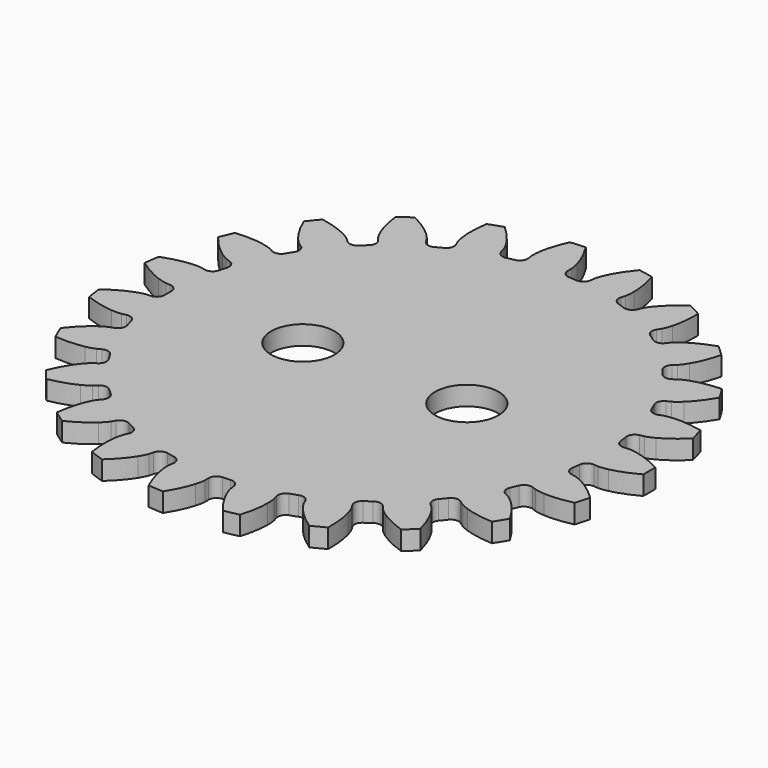
from build123d import *

# Parameters (mm, degrees)
PAD_DEPTH       = 1.8
SKETCH002_R     = 19.5
POCKET001_DEPTH = 1.801
SKETCH001_R     = 3
POCKET_DEPTH    = 5


with BuildPart() as bearing_middle:
    # InvoluteGear → Pad (new body)
    with BuildSketch(Plane.XY):
        with BuildLine():
            Line((21.1633, -1.764858), (21.575713, -1.797748))
            add(Edge.make_bspline(
                [(21.575713, -1.797748), (21.674895, -1.800178), (21.973597, -1.795911), (22.471429, -1.689824)],
                knots=[0, 0, 0, 0, 1, 1, 1, 1], degree=3))
            add(Edge.make_bspline(
                [(22.471429, -1.689824), (23.0675, -1.561071), (23.927154, -1.287541), (24.992023, -0.710094)],
                knots=[0, 0, 0, 0, 1, 1, 1, 1], degree=3))
            ThreePointArc((24.992023, -0.710094), (25.002109, 0), (24.992023, 0.710094))
            add(Edge.make_bspline(
                [(24.992023, 0.710094), (23.927154, 1.287541), (23.0675, 1.561071), (22.471429, 1.689824)],
                knots=[0, 0, 0, 0, 1, 1, 1, 1], degree=3))
            add(Edge.make_bspline(
                [(22.471429, 1.689824), (21.973597, 1.795911), (21.674895, 1.800178), (21.575713, 1.797748)],
                knots=[0, 0, 0, 0, 1, 1, 1, 1], degree=3))
            Line((21.575713, 1.797748), (21.1633, 1.764858))
            ThreePointArc((21.1633, 1.764858), (20.626905, 1.931092), (20.356285, 2.423148))
            ThreePointArc((20.356285, 2.423148), (20.309062, 2.791416), (20.255177, 3.158769))
            ThreePointArc((20.255177, 3.158769), (20.383006, 3.70559), (20.854661, 4.010378))
            Line((20.854661, 4.010378), (21.260654, 4.089975))
            add(Edge.make_bspline(
                [(21.260654, 4.089975), (21.356813, 4.114394), (21.643287, 4.199092), (22.094037, 4.435559)],
                knots=[0, 0, 0, 0, 1, 1, 1, 1], degree=3))
            add(Edge.make_bspline(
                [(22.094037, 4.435559), (22.633266, 4.720355), (23.387245, 5.215673), (24.256832, 6.059005)],
                knots=[0, 0, 0, 0, 1, 1, 1, 1], degree=3))
            ThreePointArc((24.256832, 6.059005), (24.074963, 6.745488), (23.87367, 7.426529))
            add(Edge.make_bspline(
                [(23.87367, 7.426529), (22.692496, 7.695265), (21.790922, 7.726719), (21.182219, 7.689879)],
                knots=[0, 0, 0, 0, 1, 1, 1, 1], degree=3))
            add(Edge.make_bspline(
                [(21.182219, 7.689879), (20.674225, 7.657719), (20.385448, 7.581239), (20.290601, 7.55214)],
                knots=[0, 0, 0, 0, 1, 1, 1, 1], degree=3))
            Line((20.290601, 7.55214), (19.902355, 7.409202))
            ThreePointArc((19.902355, 7.409202), (19.341001, 7.424555), (18.947661, 7.825351))
            ThreePointArc((18.947661, 7.825351), (18.802832, 8.167222), (18.651834, 8.506414))
            ThreePointArc((18.651834, 8.506414), (18.627392, 9.067446), (18.999326, 9.488182))
            Line((18.999326, 9.488182), (19.368789, 9.674364))
            add(Edge.make_bspline(
                [(19.368789, 9.674364), (19.454794, 9.72382), (19.707794, 9.882667), (20.07803, 10.231976)],
                knots=[0, 0, 0, 0, 1, 1, 1, 1], degree=3))
            add(Edge.make_bspline(
                [(20.07803, 10.231976), (20.520427, 10.651693), (21.11281, 11.332065), (21.722622, 12.378736)],
                knots=[0, 0, 0, 0, 1, 1, 1, 1], degree=3))
            ThreePointArc((21.722622, 12.378736), (21.362287, 12.990695), (20.984716, 13.592172))
            add(Edge.make_bspline(
                [(20.984716, 13.592172), (19.774839, 13.532265), (18.898212, 13.319312), (18.32202, 13.119612)],
                knots=[0, 0, 0, 0, 1, 1, 1, 1], degree=3))
            add(Edge.make_bspline(
                [(18.32202, 13.119612), (17.841541, 12.951589), (17.584107, 12.800035), (17.500627, 12.746425)],
                knots=[0, 0, 0, 0, 1, 1, 1, 1], degree=3))
            Line((17.500627, 12.746425), (17.165342, 12.50404))
            ThreePointArc((17.165342, 12.50404), (16.620663, 12.367371), (16.133776, 12.647184))
            ThreePointArc((16.133776, 12.647184), (15.902081, 12.937303), (15.66517, 13.223178))
            ThreePointArc((15.66517, 13.223178), (15.49027, 13.756811), (15.734899, 14.262291))
            Line((15.734899, 14.262291), (16.04043, 14.541249))
            add(Edge.make_bspline(
                [(16.04043, 14.541249), (16.109902, 14.612075), (16.310664, 14.83329), (16.572928, 15.269534)],
                knots=[0, 0, 0, 0, 1, 1, 1, 1], degree=3))
            add(Edge.make_bspline(
                [(16.572928, 15.269534), (16.885681, 15.793045), (17.272536, 16.608009), (17.577346, 17.780392)],
                knots=[0, 0, 0, 0, 1, 1, 1, 1], degree=3))
            ThreePointArc((17.577346, 17.780392), (17.065268, 18.272441), (16.539421, 18.749746))
            add(Edge.make_bspline(
                [(16.539421, 18.749746), (15.390573, 18.36564), (14.603908, 17.924072), (14.102961, 17.576323)],
                knots=[0, 0, 0, 0, 1, 1, 1, 1], degree=3))
            add(Edge.make_bspline(
                [(14.102961, 17.576323), (13.685631, 17.284899), (13.478632, 17.06951), (13.412712, 16.995366)],
                knots=[0, 0, 0, 0, 1, 1, 1, 1], degree=3))
            Line((13.412712, 16.995366), (13.155255, 16.67151))
            ThreePointArc((13.155255, 16.67151), (12.667647, 16.392957), (12.123323, 16.531033))
            ThreePointArc((12.123323, 16.531033), (11.821947, 16.747883), (11.516693, 16.959239))
            ThreePointArc((11.516693, 16.959239), (11.204306, 17.425896), (11.303486, 17.978632))
            Line((11.303486, 17.978632), (11.522425, 18.329676))
            add(Edge.make_bspline(
                [(11.522425, 18.329676), (11.570213, 18.416619), (11.703846, 18.683796), (11.838688, 19.174621)],
                knots=[0, 0, 0, 0, 1, 1, 1, 1], degree=3))
            add(Edge.make_bspline(
                [(11.838688, 19.174621), (11.998602, 19.763098), (12.151236, 20.652214), (12.128438, 21.863358)],
                knots=[0, 0, 0, 0, 1, 1, 1, 1], degree=3))
            ThreePointArc((12.128438, 21.863358), (11.502596, 22.199003), (10.867474, 22.516737))
            add(Edge.make_bspline(
                [(10.867474, 22.516737), (9.864858, 21.836919), (9.226498, 21.199486), (8.837949, 20.729479)],
                knots=[0, 0, 0, 0, 1, 1, 1, 1], degree=3))
            add(Edge.make_bspline(
                [(8.837949, 20.729479), (8.514721, 20.336267), (8.37351, 20.073018), (8.330038, 19.983838)],
                knots=[0, 0, 0, 0, 1, 1, 1, 1], degree=3))
            Line((8.330038, 19.983838), (8.169503, 19.602531))
            ThreePointArc((8.169503, 19.602531), (7.775129, 19.202752), (7.213738, 19.188851))
            ThreePointArc((7.213738, 19.188851), (6.865032, 19.316349), (6.514075, 19.437511))
            ThreePointArc((6.514075, 19.437511), (6.08737, 19.802582), (6.033745, 20.361579))
            Line((6.033745, 20.361579), (6.149855, 20.758675))
            add(Edge.make_bspline(
                [(6.149855, 20.758675), (6.172414, 20.855287), (6.229008, 21.14861), (6.226427, 21.657614)],
                knots=[0, 0, 0, 0, 1, 1, 1, 1], degree=3))
            add(Edge.make_bspline(
                [(6.226427, 21.657614), (6.221641, 22.267413), (6.128735, 23.164738), (5.780019, 24.324819)],
                knots=[0, 0, 0, 0, 1, 1, 1, 1], degree=3))
            ThreePointArc((5.780019, 24.324819), (5.086829, 24.479167), (4.389536, 24.613764))
            add(Edge.make_bspline(
                [(4.389536, 24.613764), (3.607512, 23.688654), (3.164802, 22.902631), (2.917468, 22.345223)],
                knots=[0, 0, 0, 0, 1, 1, 1, 1], degree=3))
            add(Edge.make_bspline(
                [(2.917468, 22.345223), (2.712312, 21.879388), (2.647362, 21.587801), (2.629562, 21.4902)],
                knots=[0, 0, 0, 0, 1, 1, 1, 1], degree=3))
            Line((2.629562, 21.4902), (2.577856, 21.079721))
            ThreePointArc((2.577856, 21.079721), (2.305966, 20.588367), (1.769143, 20.423519))
            ThreePointArc((1.769143, 20.423519), (1.398969, 20.45221), (1.028337, 20.474192))
            ThreePointArc((1.028337, 20.474192), (0.518961, 20.710601), (0.316509, 21.234402))
            Line((0.316509, 21.234402), (0.321178, 21.648098))
            add(Edge.make_bspline(
                [(0.321178, 21.648098), (0.316835, 21.747214), (0.292193, 22.044928), (0.15238, 22.534361)],
                knots=[0, 0, 0, 0, 1, 1, 1, 1], degree=3))
            add(Edge.make_bspline(
                [(0.15238, 22.534361), (-0.01675, 23.120255), (-0.348307, 23.959239), (-0.997077, 24.982219)],
                knots=[0, 0, 0, 0, 1, 1, 1, 1], degree=3))
            ThreePointArc((-0.997077, 24.982219), (-1.706204, 24.943824), (-2.413954, 24.885302))
            add(Edge.make_bspline(
                [(-2.413954, 24.885302), (-2.917387, 23.783509), (-3.131614, 22.907193), (-3.219389, 22.303725)],
                knots=[0, 0, 0, 0, 1, 1, 1, 1], degree=3))
            add(Edge.make_bspline(
                [(-3.219389, 22.303725), (-3.291256, 21.799814), (-3.275129, 21.501517), (-3.265936, 21.402733)],
                knots=[0, 0, 0, 0, 1, 1, 1, 1], degree=3))
            Line((-3.265936, 21.402733), (-3.204978, 20.993526))
            ThreePointArc((-3.204978, 20.993526), (-3.33422, 20.447036), (-3.806661, 20.143469))
            ThreePointArc((-3.806661, 20.143469), (-4.170848, 20.071224), (-4.533667, 19.992395))
            ThreePointArc((-4.533667, 19.992395), (-5.087937, 20.08261), (-5.424201, 20.532366))
            Line((-5.424201, 20.532366), (-5.531319, 20.93198))
            add(Edge.make_bspline(
                [(-5.531319, 20.93198), (-5.562243, 21.026249), (-5.666293, 21.306275), (-5.932969, 21.739837)],
                knots=[0, 0, 0, 0, 1, 1, 1, 1], degree=3))
            add(Edge.make_bspline(
                [(-5.932969, 21.739837), (-6.253899, 22.258375), (-6.799516, 22.976793), (-7.700225, 23.786802)],
                knots=[0, 0, 0, 0, 1, 1, 1, 1], degree=3))
            ThreePointArc((-7.700225, 23.786802), (-8.372697, 23.558511), (-9.038413, 23.31121))
            add(Edge.make_bspline(
                [(-9.038413, 23.31121), (-9.225916, 22.114451), (-9.195772, 21.212833), (-9.117478, 20.608062)],
                knots=[0, 0, 0, 0, 1, 1, 1, 1], degree=3))
            add(Edge.make_bspline(
                [(-9.117478, 20.608062), (-9.050726, 20.103447), (-8.954718, 19.820563), (-8.919214, 19.727922)],
                knots=[0, 0, 0, 0, 1, 1, 1, 1], degree=3))
            Line((-8.919214, 19.727922), (-8.750115, 19.350336))
            ThreePointArc((-8.750115, 19.350336), (-8.727123, 18.789243), (-9.100143, 18.369469))
            ThreePointArc((-9.100143, 18.369469), (-9.431333, 18.201647), (-9.75943, 18.027854))
            ThreePointArc((-9.75943, 18.027854), (-10.317486, 17.965183), (-10.762623, 18.307538))
            Line((-10.762623, 18.307538), (-10.973583, 18.663434))
            add(Edge.make_bspline(
                [(-10.973583, 18.663434), (-11.028794, 18.745864), (-11.204535, 18.987433), (-11.578296, 19.332969)],
                knots=[0, 0, 0, 0, 1, 1, 1, 1], degree=3))
            add(Edge.make_bspline(
                [(-11.578296, 19.332969), (-12.027225, 19.745692), (-12.746436, 20.290264), (-13.832282, 20.827227)],
                knots=[0, 0, 0, 0, 1, 1, 1, 1], degree=3))
            ThreePointArc((-13.832282, 20.827227), (-14.418224, 20.425971), (-14.992533, 20.008233))
            add(Edge.make_bspline(
                [(-14.992533, 20.008233), (-14.850201, 18.805265), (-14.577921, 17.945214), (-14.339366, 17.383993)],
                knots=[0, 0, 0, 0, 1, 1, 1, 1], degree=3))
            add(Edge.make_bspline(
                [(-14.339366, 17.383993), (-14.138946, 16.9161), (-13.970177, 16.669609), (-13.910995, 16.589982)],
                knots=[0, 0, 0, 0, 1, 1, 1, 1], degree=3))
            Line((-13.910995, 16.589982), (-13.646295, 16.27202))
            ThreePointArc((-13.646295, 16.27202), (-13.472774, 15.737937), (-13.718708, 15.23309))
            ThreePointArc((-13.718708, 15.23309), (-13.992339, 14.982137), (-14.261381, 14.72627))
            ThreePointArc((-14.261381, 14.72627), (-14.781834, 14.515361), (-15.30283, 14.724924))
            Line((-15.30283, 14.724924), (-15.601987, 15.010706))
            add(Edge.make_bspline(
                [(-15.601987, 15.010706), (-15.67739, 15.075183), (-15.911789, 15.26038), (-16.364914, 15.492263)],
                knots=[0, 0, 0, 0, 1, 1, 1, 1], degree=3))
            add(Edge.make_bspline(
                [(-16.364914, 15.492263), (-16.908547, 15.768561), (-17.748012, 16.098899), (-18.938462, 16.322992)],
                knots=[0, 0, 0, 0, 1, 1, 1, 1], degree=3))
            ThreePointArc((-18.938462, 16.322992), (-19.394418, 15.77853), (-19.834726, 15.221336))
            add(Edge.make_bspline(
                [(-19.834726, 15.221336), (-19.373115, 14.101378), (-18.878893, 13.346681), (-18.497769, 12.870633)],
                knots=[0, 0, 0, 0, 1, 1, 1, 1], degree=3))
            add(Edge.make_bspline(
                [(-18.497769, 12.870633), (-18.178545, 12.474163), (-17.949531, 12.282346), (-17.871061, 12.221639)],
                knots=[0, 0, 0, 0, 1, 1, 1, 1], degree=3))
            Line((-17.871061, 12.221639), (-17.530392, 11.986883))
            ThreePointArc((-17.530392, 11.986883), (-17.219212, 11.519421), (-17.31982, 10.966943))
            ThreePointArc((-17.31982, 10.966943), (-17.515598, 10.651471), (-17.70563, 10.332505))
            ThreePointArc((-17.70563, 10.332505), (-18.149881, 9.989001), (-18.708097, 10.05023))
            Line((-18.708097, 10.05023), (-19.073263, 10.244702))
            add(Edge.make_bspline(
                [(-19.073263, 10.244702), (-19.163265, 10.286445), (-19.438938, 10.401535), (-19.937821, 10.502567)],
                knots=[0, 0, 0, 0, 1, 1, 1, 1], degree=3))
            add(Edge.make_bspline(
                [(-19.937821, 10.502567), (-20.535839, 10.621949), (-21.433298, 10.713552), (-22.640063, 10.608155)],
                knots=[0, 0, 0, 0, 1, 1, 1, 1], degree=3))
            ThreePointArc((-22.640063, 10.608155), (-22.932217, 9.960868), (-23.205868, 9.305543))
            add(Edge.make_bspline(
                [(-23.205868, 9.305543), (-22.459214, 8.351657), (-21.779704, 7.758285), (-21.284276, 7.402716)],
                knots=[0, 0, 0, 0, 1, 1, 1, 1], degree=3))
            add(Edge.make_bspline(
                [(-21.284276, 7.402716), (-20.869924, 7.107075), (-20.597651, 6.984158), (-20.505713, 6.946873)],
                knots=[0, 0, 0, 0, 1, 1, 1, 1], degree=3))
            Line((-20.505713, 6.946873), (-20.11434, 6.812734))
            ThreePointArc((-20.11434, 6.812734), (-19.688579, 6.446562), (-19.6364, 5.887427))
            ThreePointArc((-19.6364, 5.887427), (-19.739804, 5.530834), (-19.836734, 5.172426))
            ThreePointArc((-19.836734, 5.172426), (-20.171834, 4.721803), (-20.725869, 4.630156))
            Line((-20.725869, 4.630156), (-21.129963, 4.718896))
            add(Edge.make_bspline(
                [(-21.129963, 4.718896), (-21.227889, 4.734809), (-21.52439, 4.771255), (-22.032031, 4.733944)],
                knots=[0, 0, 0, 0, 1, 1, 1, 1], degree=3))
            add(Edge.make_bspline(
                [(-22.032031, 4.733944), (-22.640082, 4.687555), (-23.528975, 4.533629), (-24.662554, 4.10656)],
                knots=[0, 0, 0, 0, 1, 1, 1, 1], degree=3))
            ThreePointArc((-24.662554, 4.10656), (-24.769238, 3.404453), (-24.855937, 2.6996))
            add(Edge.make_bspline(
                [(-24.855937, 2.6996), (-23.879615, 1.982531), (-23.065214, 1.594493), (-22.492227, 1.385775)],
                knots=[0, 0, 0, 0, 1, 1, 1, 1], degree=3))
            add(Edge.make_bspline(
                [(-22.492227, 1.385775), (-22.013476, 1.212887), (-21.718138, 1.167986), (-21.619549, 1.156889)],
                knots=[0, 0, 0, 0, 1, 1, 1, 1], degree=3))
            Line((-21.619549, 1.156889), (-21.206499, 1.133316))
            ThreePointArc((-21.206499, 1.133316), (-20.697735, 0.89559), (-20.496638, 0.371268))
            ThreePointArc((-20.496638, 0.371268), (-20.5, 0), (-20.496638, -0.371268))
            ThreePointArc((-20.496638, -0.371268), (-20.697735, -0.89559), (-21.206499, -1.133316))
            Line((-21.206499, -1.133316), (-21.619549, -1.156889))
            add(Edge.make_bspline(
                [(-21.619549, -1.156889), (-21.718138, -1.167986), (-22.013476, -1.212887), (-22.492227, -1.385775)],
                knots=[0, 0, 0, 0, 1, 1, 1, 1], degree=3))
            add(Edge.make_bspline(
                [(-22.492227, -1.385775), (-23.065214, -1.594493), (-23.879615, -1.982531), (-24.855937, -2.6996)],
                knots=[0, 0, 0, 0, 1, 1, 1, 1], degree=3))
            ThreePointArc((-24.855937, -2.6996), (-24.769238, -3.404453), (-24.662554, -4.10656))
            add(Edge.make_bspline(
                [(-24.662554, -4.10656), (-23.528975, -4.533629), (-22.640082, -4.687555), (-22.032031, -4.733944)],
                knots=[0, 0, 0, 0, 1, 1, 1, 1], degree=3))
            add(Edge.make_bspline(
                [(-22.032031, -4.733944), (-21.52439, -4.771255), (-21.227889, -4.734809), (-21.129963, -4.718896)],
                knots=[0, 0, 0, 0, 1, 1, 1, 1], degree=3))
            Line((-21.129963, -4.718896), (-20.725869, -4.630156))
            ThreePointArc((-20.725869, -4.630156), (-20.171834, -4.721803), (-19.836734, -5.172426))
            ThreePointArc((-19.836734, -5.172426), (-19.739804, -5.530834), (-19.6364, -5.887427))
            ThreePointArc((-19.6364, -5.887427), (-19.688579, -6.446562), (-20.11434, -6.812734))
            Line((-20.11434, -6.812734), (-20.505713, -6.946873))
            add(Edge.make_bspline(
                [(-20.505713, -6.946873), (-20.597651, -6.984158), (-20.869924, -7.107075), (-21.284276, -7.402716)],
                knots=[0, 0, 0, 0, 1, 1, 1, 1], degree=3))
            add(Edge.make_bspline(
                [(-21.284276, -7.402716), (-21.779704, -7.758285), (-22.459214, -8.351657), (-23.205868, -9.305543)],
                knots=[0, 0, 0, 0, 1, 1, 1, 1], degree=3))
            ThreePointArc((-23.205868, -9.305543), (-22.932217, -9.960868), (-22.640063, -10.608155))
            add(Edge.make_bspline(
                [(-22.640063, -10.608155), (-21.433298, -10.713552), (-20.535839, -10.621949), (-19.937821, -10.502567)],
                knots=[0, 0, 0, 0, 1, 1, 1, 1], degree=3))
            add(Edge.make_bspline(
                [(-19.937821, -10.502567), (-19.438938, -10.401535), (-19.163265, -10.286445), (-19.073263, -10.244702)],
                knots=[0, 0, 0, 0, 1, 1, 1, 1], degree=3))
            Line((-19.073263, -10.244702), (-18.708097, -10.05023))
            ThreePointArc((-18.708097, -10.05023), (-18.149881, -9.989001), (-17.70563, -10.332505))
            ThreePointArc((-17.70563, -10.332505), (-17.515598, -10.651471), (-17.31982, -10.966943))
            ThreePointArc((-17.31982, -10.966943), (-17.219212, -11.519421), (-17.530392, -11.986883))
            Line((-17.530392, -11.986883), (-17.871061, -12.221639))
            add(Edge.make_bspline(
                [(-17.871061, -12.221639), (-17.949531, -12.282346), (-18.178545, -12.474163), (-18.497769, -12.870633)],
                knots=[0, 0, 0, 0, 1, 1, 1, 1], degree=3))
            add(Edge.make_bspline(
                [(-18.497769, -12.870633), (-18.878893, -13.346681), (-19.373115, -14.101378), (-19.834726, -15.221336)],
                knots=[0, 0, 0, 0, 1, 1, 1, 1], degree=3))
            ThreePointArc((-19.834726, -15.221336), (-19.394418, -15.77853), (-18.938462, -16.322992))
            add(Edge.make_bspline(
                [(-18.938462, -16.322992), (-17.748012, -16.098899), (-16.908547, -15.768561), (-16.364914, -15.492263)],
                knots=[0, 0, 0, 0, 1, 1, 1, 1], degree=3))
            add(Edge.make_bspline(
                [(-16.364914, -15.492263), (-15.911789, -15.26038), (-15.67739, -15.075183), (-15.601987, -15.010706)],
                knots=[0, 0, 0, 0, 1, 1, 1, 1], degree=3))
            Line((-15.601987, -15.010706), (-15.30283, -14.724924))
            ThreePointArc((-15.30283, -14.724924), (-14.781834, -14.515361), (-14.261381, -14.72627))
            ThreePointArc((-14.261381, -14.72627), (-13.992339, -14.982137), (-13.718708, -15.23309))
            ThreePointArc((-13.718708, -15.23309), (-13.472774, -15.737937), (-13.646295, -16.27202))
            Line((-13.646295, -16.27202), (-13.910995, -16.589982))
            add(Edge.make_bspline(
                [(-13.910995, -16.589982), (-13.970177, -16.669609), (-14.138946, -16.9161), (-14.339366, -17.383993)],
                knots=[0, 0, 0, 0, 1, 1, 1, 1], degree=3))
            add(Edge.make_bspline(
                [(-14.339366, -17.383993), (-14.577921, -17.945214), (-14.850201, -18.805265), (-14.992533, -20.008233)],
                knots=[0, 0, 0, 0, 1, 1, 1, 1], degree=3))
            ThreePointArc((-14.992533, -20.008233), (-14.418224, -20.425971), (-13.832282, -20.827227))
            add(Edge.make_bspline(
                [(-13.832282, -20.827227), (-12.746436, -20.290264), (-12.027225, -19.745692), (-11.578296, -19.332969)],
                knots=[0, 0, 0, 0, 1, 1, 1, 1], degree=3))
            add(Edge.make_bspline(
                [(-11.578296, -19.332969), (-11.204535, -18.987433), (-11.028794, -18.745864), (-10.973583, -18.663434)],
                knots=[0, 0, 0, 0, 1, 1, 1, 1], degree=3))
            Line((-10.973583, -18.663434), (-10.762623, -18.307538))
            ThreePointArc((-10.762623, -18.307538), (-10.317486, -17.965183), (-9.75943, -18.027854))
            ThreePointArc((-9.75943, -18.027854), (-9.431333, -18.201647), (-9.100143, -18.369469))
            ThreePointArc((-9.100143, -18.369469), (-8.727123, -18.789243), (-8.750115, -19.350336))
            Line((-8.750115, -19.350336), (-8.919214, -19.727922))
            add(Edge.make_bspline(
                [(-8.919214, -19.727922), (-8.954718, -19.820563), (-9.050726, -20.103447), (-9.117478, -20.608062)],
                knots=[0, 0, 0, 0, 1, 1, 1, 1], degree=3))
            add(Edge.make_bspline(
                [(-9.117478, -20.608062), (-9.195772, -21.212833), (-9.225916, -22.114451), (-9.038413, -23.31121)],
                knots=[0, 0, 0, 0, 1, 1, 1, 1], degree=3))
            ThreePointArc((-9.038413, -23.31121), (-8.372697, -23.558511), (-7.700225, -23.786802))
            add(Edge.make_bspline(
                [(-7.700225, -23.786802), (-6.799516, -22.976793), (-6.253899, -22.258375), (-5.932969, -21.739837)],
                knots=[0, 0, 0, 0, 1, 1, 1, 1], degree=3))
            add(Edge.make_bspline(
                [(-5.932969, -21.739837), (-5.666293, -21.306275), (-5.562243, -21.026249), (-5.531319, -20.93198)],
                knots=[0, 0, 0, 0, 1, 1, 1, 1], degree=3))
            Line((-5.531319, -20.93198), (-5.424201, -20.532366))
            ThreePointArc((-5.424201, -20.532366), (-5.087937, -20.08261), (-4.533667, -19.992395))
            ThreePointArc((-4.533667, -19.992395), (-4.170848, -20.071224), (-3.806661, -20.143469))
            ThreePointArc((-3.806661, -20.143469), (-3.33422, -20.447036), (-3.204978, -20.993526))
            Line((-3.204978, -20.993526), (-3.265936, -21.402733))
            add(Edge.make_bspline(
                [(-3.265936, -21.402733), (-3.275129, -21.501517), (-3.291256, -21.799814), (-3.219389, -22.303725)],
                knots=[0, 0, 0, 0, 1, 1, 1, 1], degree=3))
            add(Edge.make_bspline(
                [(-3.219389, -22.303725), (-3.131614, -22.907193), (-2.917387, -23.783509), (-2.413954, -24.885302)],
                knots=[0, 0, 0, 0, 1, 1, 1, 1], degree=3))
            ThreePointArc((-2.413954, -24.885302), (-1.706204, -24.943824), (-0.997077, -24.982219))
            add(Edge.make_bspline(
                [(-0.997077, -24.982219), (-0.348307, -23.959239), (-0.01675, -23.120255), (0.15238, -22.534361)],
                knots=[0, 0, 0, 0, 1, 1, 1, 1], degree=3))
            add(Edge.make_bspline(
                [(0.15238, -22.534361), (0.292193, -22.044928), (0.316835, -21.747214), (0.321178, -21.648098)],
                knots=[0, 0, 0, 0, 1, 1, 1, 1], degree=3))
            Line((0.321178, -21.648098), (0.316509, -21.234402))
            ThreePointArc((0.316509, -21.234402), (0.518961, -20.710601), (1.028337, -20.474192))
            ThreePointArc((1.028337, -20.474192), (1.398969, -20.45221), (1.769143, -20.423519))
            ThreePointArc((1.769143, -20.423519), (2.305966, -20.588367), (2.577856, -21.079721))
            Line((2.577856, -21.079721), (2.629562, -21.4902))
            add(Edge.make_bspline(
                [(2.629562, -21.4902), (2.647362, -21.587801), (2.712312, -21.879388), (2.917468, -22.345223)],
                knots=[0, 0, 0, 0, 1, 1, 1, 1], degree=3))
            add(Edge.make_bspline(
                [(2.917468, -22.345223), (3.164802, -22.902631), (3.607512, -23.688654), (4.389536, -24.613764)],
                knots=[0, 0, 0, 0, 1, 1, 1, 1], degree=3))
            ThreePointArc((4.389536, -24.613764), (5.086829, -24.479167), (5.780019, -24.324819))
            add(Edge.make_bspline(
                [(5.780019, -24.324819), (6.128735, -23.164738), (6.221641, -22.267413), (6.226427, -21.657614)],
                knots=[0, 0, 0, 0, 1, 1, 1, 1], degree=3))
            add(Edge.make_bspline(
                [(6.226427, -21.657614), (6.229008, -21.14861), (6.172414, -20.855287), (6.149855, -20.758675)],
                knots=[0, 0, 0, 0, 1, 1, 1, 1], degree=3))
            Line((6.149855, -20.758675), (6.033745, -20.361579))
            ThreePointArc((6.033745, -20.361579), (6.08737, -19.802582), (6.514075, -19.437511))
            ThreePointArc((6.514075, -19.437511), (6.865032, -19.316349), (7.213738, -19.188851))
            ThreePointArc((7.213738, -19.188851), (7.775129, -19.202752), (8.169503, -19.602531))
            Line((8.169503, -19.602531), (8.330038, -19.983838))
            add(Edge.make_bspline(
                [(8.330038, -19.983838), (8.37351, -20.073018), (8.514721, -20.336267), (8.837949, -20.729479)],
                knots=[0, 0, 0, 0, 1, 1, 1, 1], degree=3))
            add(Edge.make_bspline(
                [(8.837949, -20.729479), (9.226498, -21.199486), (9.864858, -21.836919), (10.867474, -22.516737)],
                knots=[0, 0, 0, 0, 1, 1, 1, 1], degree=3))
            ThreePointArc((10.867474, -22.516737), (11.502596, -22.199003), (12.128438, -21.863358))
            add(Edge.make_bspline(
                [(12.128438, -21.863358), (12.151236, -20.652214), (11.998602, -19.763098), (11.838688, -19.174621)],
                knots=[0, 0, 0, 0, 1, 1, 1, 1], degree=3))
            add(Edge.make_bspline(
                [(11.838688, -19.174621), (11.703846, -18.683796), (11.570213, -18.416619), (11.522425, -18.329676)],
                knots=[0, 0, 0, 0, 1, 1, 1, 1], degree=3))
            Line((11.522425, -18.329676), (11.303486, -17.978632))
            ThreePointArc((11.303486, -17.978632), (11.204306, -17.425896), (11.516693, -16.959239))
            ThreePointArc((11.516693, -16.959239), (11.821947, -16.747883), (12.123323, -16.531033))
            ThreePointArc((12.123323, -16.531033), (12.667647, -16.392957), (13.155255, -16.67151))
            Line((13.155255, -16.67151), (13.412712, -16.995366))
            add(Edge.make_bspline(
                [(13.412712, -16.995366), (13.478632, -17.06951), (13.685631, -17.284899), (14.102961, -17.576323)],
                knots=[0, 0, 0, 0, 1, 1, 1, 1], degree=3))
            add(Edge.make_bspline(
                [(14.102961, -17.576323), (14.603908, -17.924072), (15.390573, -18.36564), (16.539421, -18.749746)],
                knots=[0, 0, 0, 0, 1, 1, 1, 1], degree=3))
            ThreePointArc((16.539421, -18.749746), (17.065268, -18.272441), (17.577346, -17.780392))
            add(Edge.make_bspline(
                [(17.577346, -17.780392), (17.272536, -16.608009), (16.885681, -15.793045), (16.572928, -15.269534)],
                knots=[0, 0, 0, 0, 1, 1, 1, 1], degree=3))
            add(Edge.make_bspline(
                [(16.572928, -15.269534), (16.310664, -14.83329), (16.109902, -14.612075), (16.04043, -14.541249)],
                knots=[0, 0, 0, 0, 1, 1, 1, 1], degree=3))
            Line((16.04043, -14.541249), (15.734899, -14.262291))
            ThreePointArc((15.734899, -14.262291), (15.49027, -13.756811), (15.66517, -13.223178))
            ThreePointArc((15.66517, -13.223178), (15.902081, -12.937303), (16.133776, -12.647184))
            ThreePointArc((16.133776, -12.647184), (16.620663, -12.367371), (17.165342, -12.50404))
            Line((17.165342, -12.50404), (17.500627, -12.746425))
            add(Edge.make_bspline(
                [(17.500627, -12.746425), (17.584107, -12.800035), (17.841541, -12.951589), (18.32202, -13.119612)],
                knots=[0, 0, 0, 0, 1, 1, 1, 1], degree=3))
            add(Edge.make_bspline(
                [(18.32202, -13.119612), (18.898212, -13.319312), (19.774839, -13.532265), (20.984716, -13.592172)],
                knots=[0, 0, 0, 0, 1, 1, 1, 1], degree=3))
            ThreePointArc((20.984716, -13.592172), (21.362287, -12.990695), (21.722622, -12.378736))
            add(Edge.make_bspline(
                [(21.722622, -12.378736), (21.11281, -11.332065), (20.520427, -10.651693), (20.07803, -10.231976)],
                knots=[0, 0, 0, 0, 1, 1, 1, 1], degree=3))
            add(Edge.make_bspline(
                [(20.07803, -10.231976), (19.707794, -9.882667), (19.454794, -9.72382), (19.368789, -9.674364)],
                knots=[0, 0, 0, 0, 1, 1, 1, 1], degree=3))
            Line((19.368789, -9.674364), (18.999326, -9.488182))
            ThreePointArc((18.999326, -9.488182), (18.627392, -9.067446), (18.651834, -8.506414))
            ThreePointArc((18.651834, -8.506414), (18.802832, -8.167222), (18.947661, -7.825351))
            ThreePointArc((18.947661, -7.825351), (19.341001, -7.424555), (19.902355, -7.409202))
            Line((19.902355, -7.409202), (20.290601, -7.55214))
            add(Edge.make_bspline(
                [(20.290601, -7.55214), (20.385448, -7.581239), (20.674225, -7.657719), (21.182219, -7.689879)],
                knots=[0, 0, 0, 0, 1, 1, 1, 1], degree=3))
            add(Edge.make_bspline(
                [(21.182219, -7.689879), (21.790922, -7.726719), (22.692496, -7.695265), (23.87367, -7.426529)],
                knots=[0, 0, 0, 0, 1, 1, 1, 1], degree=3))
            ThreePointArc((23.87367, -7.426529), (24.074963, -6.745488), (24.256832, -6.059005))
            add(Edge.make_bspline(
                [(24.256832, -6.059005), (23.387245, -5.215673), (22.633266, -4.720355), (22.094037, -4.435559)],
                knots=[0, 0, 0, 0, 1, 1, 1, 1], degree=3))
            add(Edge.make_bspline(
                [(22.094037, -4.435559), (21.643287, -4.199092), (21.356813, -4.114394), (21.260654, -4.089975)],
                knots=[0, 0, 0, 0, 1, 1, 1, 1], degree=3))
            Line((21.260654, -4.089975), (20.854661, -4.010378))
            ThreePointArc((20.854661, -4.010378), (20.383006, -3.70559), (20.255177, -3.158769))
            ThreePointArc((20.255177, -3.158769), (20.309062, -2.791416), (20.356285, -2.423148))
            ThreePointArc((20.356285, -2.423148), (20.626905, -1.931092), (21.1633, -1.764858))
        make_face()
    extrude(amount=PAD_DEPTH)

    # Sketch002 (on Face231 of Pad) → Pocket001 (cut, through all)
    with BuildSketch(Plane(origin=(0, 0, 0), x_dir=(1, 0, 0), z_dir=(0, 0, -1))):
        Circle(SKETCH002_R)
    extrude(amount=-POCKET001_DEPTH, mode=Mode.SUBTRACT)

    # Sketch → Revolution (revolve)
    with BuildSketch(Plane.XZ):
        with BuildLine():
            Line((0, 1.8), (0, 0))
            Line((0, 0), (-20, 0))
            Line((-20, 0), (-20, 1.8))
            Line((-20, 1.8), (-19.081665, 1.8))
            ThreePointArc((-19.081665, 1.8), (-18, 0.9), (-16.918335, 1.8))
            Line((-16.918335, 1.8), (-16, 1.8))
            Line((-16, 1.8), (0, 1.8))
        make_face()
    revolve(axis=Axis((0, 0, 0), (0, 0, 1)))

    # Sketch001 → Pocket (cut)
    with BuildSketch(Plane(origin=(0, 0, 0), x_dir=(1, 0, 0), z_dir=(0, 0, -1))):
        with Locations((-7.75, 0)):
            Circle(SKETCH001_R)
        with Locations((7.75, 0)):
            Circle(SKETCH001_R)
    extrude(amount=-POCKET_DEPTH, mode=Mode.SUBTRACT)


with BuildPart() as part_mirroring001:
    # Part__Mirroring001: instance of bearing-middle
    add(bearing_middle.part.mirror(Plane(origin=(0, 0, 0), x_dir=(0, 1, 0), z_dir=(0, 0, 1))))


solid = part_mirroring001.part
